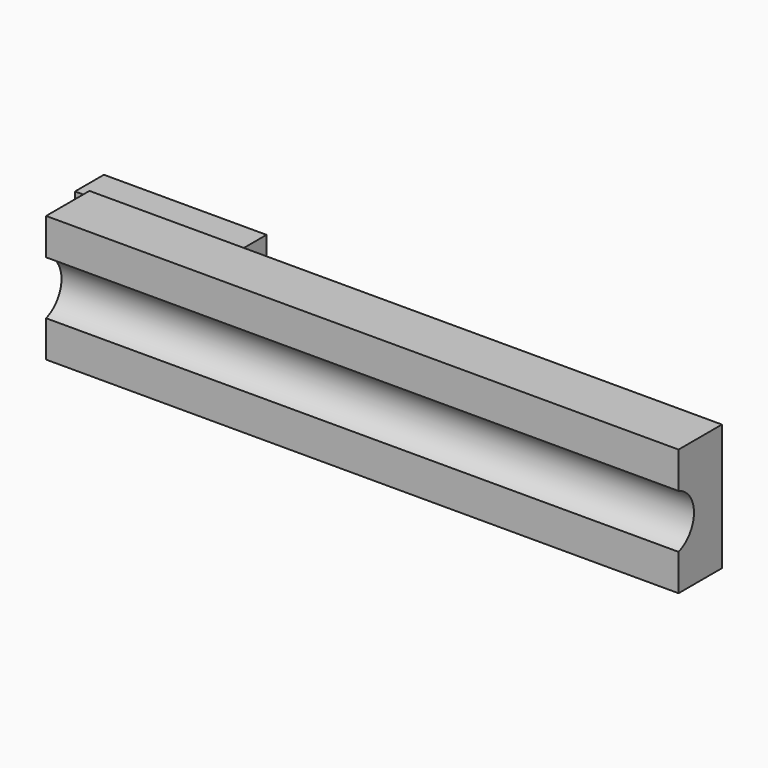
from build123d import *

# Parameters (mm, degrees)
F0_W     = 88.9
F0_H     = 17.78
F1_DEPTH = 7.62
F2_R     = 3.9751
F3_DEPTH = 88.901
F4_W     = 7.62
F4_H     = 6.0452
F5_DEPTH = 21.59
F6_W     = 5.08
F6_H     = 6.0452
F7_DEPTH = 15.24


with BuildPart() as f1:
    # F0 (on Front) → F1 (new body)
    with BuildSketch(Plane.XZ):
        with Locations((-44.45, 8.89)):
            Rectangle(F0_W, F0_H)
    extrude(amount=F1_DEPTH)

    # F2 (on face) → F3 (cut, through all)
    with BuildSketch(Plane(origin=(-88.9, 0, 0), x_dir=(0, -1, 0), z_dir=(-1, 0, 0))):
        with Locations((8.89, 8.89)):
            Circle(F2_R)
    extrude(amount=-F3_DEPTH, mode=Mode.SUBTRACT)

    # F4 (on face) → F5 (join)
    with BuildSketch(Plane(origin=(0, 0, 0), x_dir=(-1, 0, 0), z_dir=(0, 1, 0))):
        with Locations((85.09, 3.0226)):
            Rectangle(F4_W, F4_H)
    extrude(amount=F5_DEPTH)

    # F6 (on face) → F7 (join)
    with BuildSketch(Plane(origin=(-88.9, 0, 0), x_dir=(0, -1, 0), z_dir=(-1, 0, 0))):
        with Locations((-19.05, 3.0226)):
            Rectangle(F6_W, F6_H)
    extrude(amount=F7_DEPTH)


solid = f1.part
